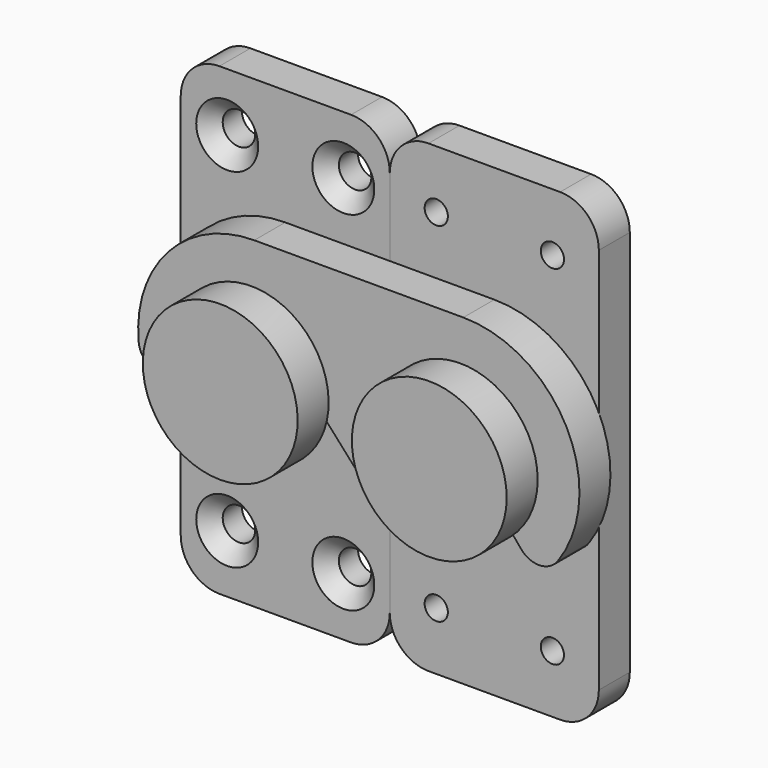
from build123d import *

# Parameters (mm, degrees)
SKETCH_W         = 27
SKETCH_H         = 60
PAD_DEPTH        = 5
FILLET_R         = 5
HOLE_D           = 4.2
HOLE_DEPTH       = 25
HOLE_CSINK_D     = 8
HOLE_CSINK_ANGLE = 90
SKETCH003_W      = 27
SKETCH003_H      = 60
PAD001_DEPTH     = 5
SKETCH004_R      = 1.5
POCKET001_DEPTH  = 5
FILLET001_R      = 5
PAD002_DEPTH     = 5
CHAMFER_SIZE     = 2
FILLET002_R      = 3


with BuildPart() as body:
    # Sketch → Pad (new body)
    with BuildSketch(Plane.XZ):
        Rectangle(SKETCH_W, SKETCH_H)
    extrude(amount=-PAD_DEPTH)

    # Sketch002 → Revolution (revolve)
    with BuildSketch(Plane.YZ):
        Polygon((0, -7), (-5.5, -7), (-5.5, -10), (-10.5, -10), (-10.5, 0), (0, 0), align=None)
    revolve(axis=Axis((0, 0, 0), (0, 1, 0)))

    # Fillet
    fillet_edges = [body.edges().sort_by_distance(p)[0] for p in [
        (-13.5, 2.5, 30),
        (13.5, 2.5, 30),
        (-13.5, 2.5, -30),
        (13.5, 2.5, -30),
    ]]
    fillet(fillet_edges, radius=FILLET_R)

    # Hole
    with Locations(Plane.XZ):
        with Locations((-7.5, 22.5), (7.5, 22.5), (-7.5, -22.5), (7.5, -22.5)):
            CounterSinkHole(HOLE_D / 2, HOLE_CSINK_D / 2, depth=HOLE_DEPTH, counter_sink_angle=HOLE_CSINK_ANGLE)


with BuildPart() as body001:
    # Sketch003 → Pad001 (new body)
    with BuildSketch(Plane.XZ):
        with Locations((27, 0)):
            Rectangle(SKETCH003_W, SKETCH003_H)
    extrude(amount=-PAD001_DEPTH)

    # Sketch004 → Pocket001 (cut)
    with BuildSketch(Plane.XZ):
        with Locations((19.5, 22.5)):
            Circle(SKETCH004_R)
        with Locations((34.5, 22.5)):
            Circle(SKETCH004_R)
        with Locations((19.5, -22.5)):
            Circle(SKETCH004_R)
        with Locations((34.5, -22.5)):
            Circle(SKETCH004_R)
    extrude(amount=-POCKET001_DEPTH, mode=Mode.SUBTRACT)

    # Sketch005 → Revolution001 (revolve)
    with BuildSketch(Plane.XY):
        Polygon((27, 0), (27, -10.5), (37, -10.5), (37, -5.5), (34, -5.5), (34, 0), align=None)
    revolve(axis=Axis((27, 0, 0), (0, -1, 0)))

    # Fillet001
    fillet001_edges = [body001.edges().sort_by_distance(p)[0] for p in [
        (13.5, 2.5, 30),
        (40.5, 2.5, 30),
        (40.5, 2.5, -30),
        (13.5, 2.5, -30),
    ]]
    fillet(fillet001_edges, radius=FILLET001_R)


with BuildPart() as body002:
    # Sketch006 → Pad002 (new body)
    with BuildSketch(Plane.XZ):
        with BuildLine():
            ThreePointArc((7.937254, -1), (-0.893087, 7.949993), (-7.517541, -2.736161))
            Line((-7.517541, -2.736161), (-14.095389, -5.130302))
            ThreePointArc((0, 15), (-12.287281, 8.603647), (-14.095389, -5.130302))
            Line((0, 15), (27, 15))
            ThreePointArc((36.641814, -11.490667), (41.095389, 5.130302), (27, 15))
            Line((32.142301, -6.128356), (36.641814, -11.490667))
            ThreePointArc((32.142301, -6.128356), (27, 8), (21.857699, -6.128356))
            Line((21.857699, -6.128356), (17.358186, -11.490667))
            Line((7.937254, -1), (17.358186, -11.490667))
        make_face()
    extrude(amount=PAD002_DEPTH)

    # Chamfer
    chamfer_edges = [body002.edges().sort_by_distance(p)[0] for p in [
        (21.857699, -2.5, -6.128356),
        (32.142301, -2.5, -6.128356),
    ]]
    chamfer(chamfer_edges, length=CHAMFER_SIZE)

    # Fillet002
    fillet002_edges = [body002.edges().sort_by_distance(p)[0] for p in [
        (17.358186, -2.5, -11.490667),
        (-14.095389, -2.5, -5.130302),
        (-7.517541, -2.5, -2.736161),
        (36.641814, -2.5, -11.490667),
        (7.937254, -2.5, -1),
    ]]
    fillet(fillet002_edges, radius=FILLET002_R)


solid = Compound([body.part, body001.part, body002.part])
